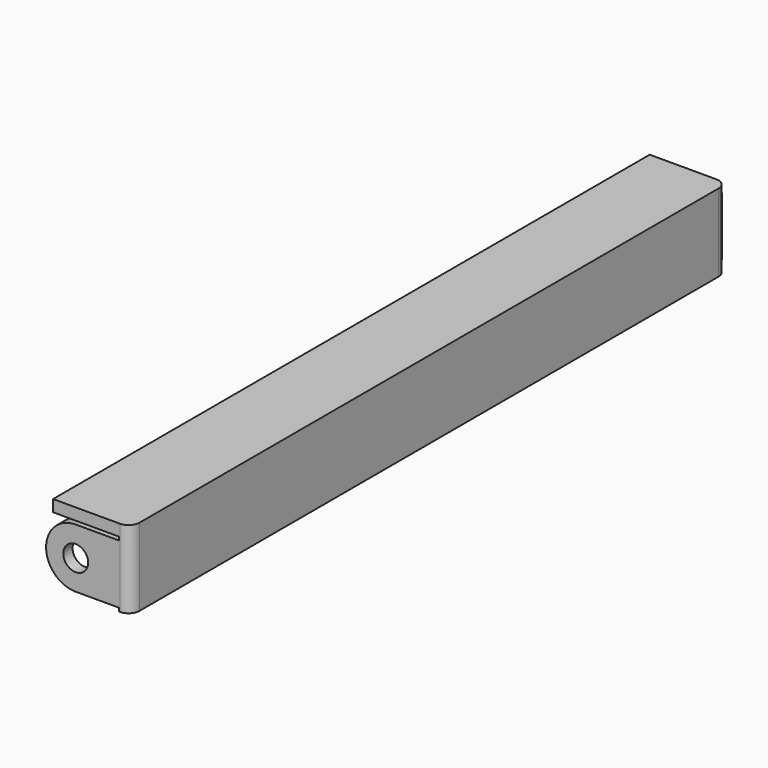
from build123d import *

# Parameters (mm, degrees)
PAD007_DEPTH        = 96
SKETCH010_R         = 1.6
PAD008_DEPTH        = 1.5
LINEARPATTERN_COUNT = 2
LINEARPATTERN_PITCH = 95.5
FILLET002_R         = 1.4
FILLET003_R         = 0.5
FILLET004_R         = 1.4
FILLET005_R         = 0.5


with BuildPart() as part:
    # Sketch009 (on Face5 of Binder009) → Pad007 (new body)
    with BuildSketch(Plane.XZ.offset(50)):
        Polygon((-60.5, -2), (-50.5, -2), (-50.5, -12), (-52, -12), (-52, -3.5), (-60.5, -3.5), align=None)
    extrude(amount=-PAD007_DEPTH)

    # Sketch010 (on Face7 of Pad007) → Pad008 (join)
    with BuildSketch(Plane.XZ.offset(50)):
        with BuildLine():
            ThreePointArc((-57.59, -3.94), (-61.4, -7.75), (-57.59, -11.56))
            Line((-57.59, -11.56), (-52, -11.56))
            Line((-52, -3.94), (-52, -11.56))
            Line((-57.59, -3.94), (-52, -3.94))
        make_face()
        with Locations((-57.59, -7.75)):
            Circle(SKETCH010_R, mode=Mode.SUBTRACT)
    pad008 = extrude(amount=-PAD008_DEPTH)

    # LinearPattern: Pad008 ×2
    with Locations(*[(0, i * LINEARPATTERN_PITCH, 0) for i in range(1, LINEARPATTERN_COUNT)]):
        add(pad008)

    # Fillet002
    fillet002_edges = [part.edges().sort_by_distance(p)[0] for p in [
        (-50.5, -50, -7),
    ]]
    fillet(fillet002_edges, radius=FILLET002_R)

    # Fillet003
    fillet003_edges = [part.edges().sort_by_distance(p)[0] for p in [
        (-52, -48.5, -7.75),
    ]]
    fillet(fillet003_edges, radius=FILLET003_R)

    # Fillet004
    fillet004_edges = [part.edges().sort_by_distance(p)[0] for p in [
        (-50.5, 46, -7),
    ]]
    fillet(fillet004_edges, radius=FILLET004_R)

    # Fillet005
    fillet005_edges = [part.edges().sort_by_distance(p)[0] for p in [
        (-52, 45.5, -7.75),
    ]]
    fillet(fillet005_edges, radius=FILLET005_R)


solid = part.part
